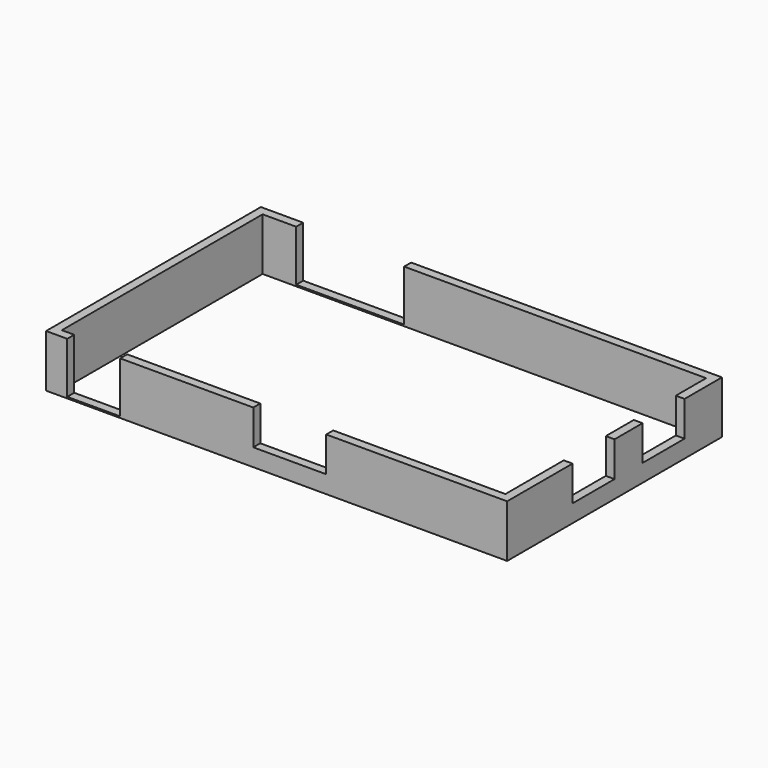
from build123d import *

# Parameters (mm, degrees)
F0_W     = 8026.4
F0_H     = 4673.6
F0_W_2   = 7721.6
F0_H_2   = 4368.8
F1_DEPTH = 914.4
F2_W     = 920.75
F2_H     = 152.4
F2_W_2   = 1879.6
F3_DEPTH = 889
F4_W     = 1270
F4_H     = 152.4
F4_W_2   = 152.4
F4_H_2   = 914.4
F5_DEPTH = 609.6


with BuildPart() as f1:
    # F0 (on Top) → F1 (new body)
    with BuildSketch(Plane.XY):
        with Locations((1122.358516, -455.561714)):
            Rectangle(F0_W, F0_H)
        with Locations((1122.358516, -455.561714)):
            Rectangle(F0_W_2, F0_H_2, mode=Mode.SUBTRACT)
    extrude(amount=F1_DEPTH)

    # F2 (on face) → F3 (cut)
    with BuildSketch(Plane.XY.offset(914.4)):
        with Locations((-2062.166484, -2716.161714)):
            Rectangle(F2_W, F2_H)
        with Locations((-1214.441484, 1805.038286)):
            Rectangle(F2_W_2, F2_H)
    extrude(amount=-F3_DEPTH, mode=Mode.SUBTRACT)

    # F4 (on face) → F5 (cut)
    with BuildSketch(Plane.XY.offset(914.4)):
        with Locations((1350.958516, -2716.161714)):
            Rectangle(F4_W, F4_H)
        with Locations((5059.358516, -912.761714)):
            Rectangle(F4_W_2, F4_H_2)
        with Locations((5059.358516, 611.238286)):
            Rectangle(F4_W_2, F4_H_2)
    extrude(amount=-F5_DEPTH, mode=Mode.SUBTRACT)


solid = f1.part
